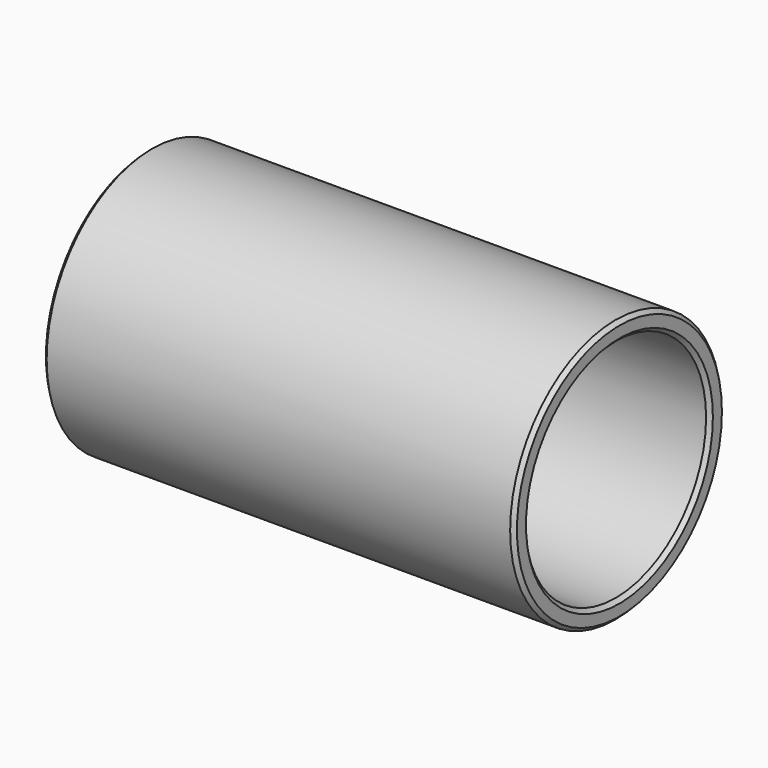
from build123d import *

# Parameters (mm, degrees)
F0_R     = 7
F0_R_2   = 6
F1_DEPTH = 25
F2_SIZE  = 0.2


with BuildPart() as f1:
    # F0 (on Right) → F1 (new body)
    with BuildSketch(Plane.YZ):
        Circle(F0_R)
        Circle(F0_R_2, mode=Mode.SUBTRACT)
    extrude(amount=F1_DEPTH)

    # F2
    f2_edges = [f1.edges().sort_by_distance(p)[0] for p in [
        (0, -7, 0),
        (25, -7, 0),
        (25, -6, 0),
        (0, -6, 0),
    ]]
    chamfer(f2_edges, length=F2_SIZE)


solid = f1.part
